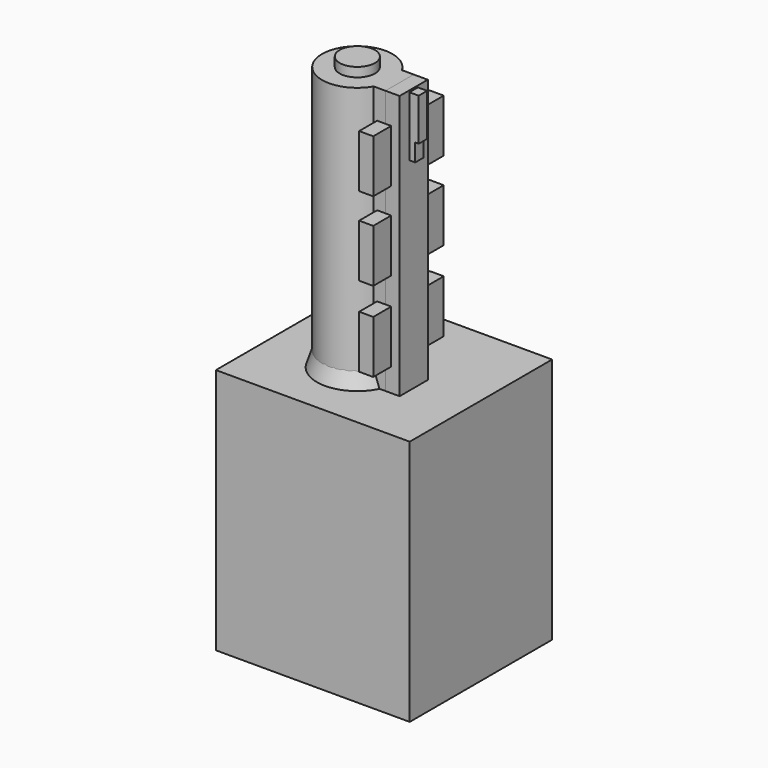
from build123d import *

# Parameters (mm, degrees)
BOX_W             = 8
BOX_H             = 20
BOX_DEPTH         = 290
CYLINDER_R        = 20
CYLINDER_DEPTH    = 290
CYLINDER001_R     = 25
CYLINDER001_DEPTH = 140
BOX005_W          = 8
BOX005_H          = 6
BOX005_DEPTH      = 34
BOX004_W          = 10
BOX004_H          = 6
BOX004_DEPTH      = 24
BOX002_W          = 10
BOX002_H          = 6
BOX002_DEPTH      = 24
BOX001_W          = 8
BOX001_H          = 20
BOX001_DEPTH      = 290
BOX003_W          = 10
BOX003_H          = 6
BOX003_DEPTH      = 24
BOX006_W          = 8
BOX006_H          = 50
BOX006_DEPTH      = 30
BOX007_W          = 8
BOX007_H          = 50
BOX007_DEPTH      = 30
BOX008_W          = 8
BOX008_H          = 50
BOX008_DEPTH      = 30
CYLINDER002_R     = 10
CYLINDER002_DEPTH = 20
CYLINDER003_R     = 10
CYLINDER003_DEPTH = 290
BOX009_W          = 10
BOX009_H          = 10
BOX009_DEPTH      = 10
BOX010_W          = 110
BOX010_H          = 101
BOX010_DEPTH      = 140
CYLINDER004_R     = 18
CYLINDER004_DEPTH = 20


with BuildPart() as cube:
    # Box → Box (new body)
    with BuildSketch(Plane(origin=(17.25, -10, 0), x_dir=(1, 0, 0), z_dir=(0, 0, 1))):
        with Locations((4, 10)):
            Rectangle(BOX_W, BOX_H)
    extrude(amount=BOX_DEPTH)


with BuildPart() as mainbarrel:
    # Cylinder → Cylinder (new body)
    with BuildSketch(Plane.XY):
        Circle(CYLINDER_R)
    extrude(amount=CYLINDER_DEPTH)

    # Fusion: union Cube
    add(cube.part)


with BuildPart() as cylinder001:
    # Cylinder001 → Cylinder001 (new body)
    with BuildSketch(Plane.XY):
        Circle(CYLINDER001_R)
    extrude(amount=CYLINDER001_DEPTH)


with BuildPart() as rearbarrel:
    # Cone → Cone (revolve)
    with BuildSketch(Plane(origin=(0, 0, 139.75), x_dir=(1, 0, 0), z_dir=(0, -1, 0))):
        Polygon((0, 0), (23, 0), (18, 15), (0, 15), align=None)
    revolve(axis=Axis((0, 0, 139.75), (0, 0, 1)))

    # Fusion001: union Cylinder001
    add(cylinder001.part)


with BuildPart() as cube005:
    # Box005 → Box005 (new body)
    with BuildSketch(Plane(origin=(27.25, -3, 0), x_dir=(1, 0, 0), z_dir=(0, 0, 1))):
        with Locations((4, 3)):
            Rectangle(BOX005_W, BOX005_H)
    extrude(amount=BOX005_DEPTH)


with BuildPart() as obj1:
    # Box004 → Box004 (new body)
    with BuildSketch(Plane(origin=(27.25, -3, 10), x_dir=(1, 0, 0), z_dir=(0, 0, 1))):
        with Locations((5, 3)):
            Rectangle(BOX004_W, BOX004_H)
    extrude(amount=BOX004_DEPTH)

    # Fusion002: union Cube005
    add(cube005.part)


with BuildPart() as obj1_1:
    # Fusion002 placement: moved
    add(obj1.part.moved(Location((0, 0, 255))))


with BuildPart() as cube002:
    # Box002 → Box002 (new body)
    with BuildSketch(Plane(origin=(27.25, -10, 0), x_dir=(1, 0, 0), z_dir=(0, 0, 1))):
        with Locations((5, 3)):
            Rectangle(BOX002_W, BOX002_H)
    extrude(amount=BOX002_DEPTH)


with BuildPart() as cube001:
    # Box001 → Box001 (new body)
    with BuildSketch(Plane(origin=(24, -10, 0), x_dir=(1, 0, 0), z_dir=(0, 0, 1))):
        with Locations((4, 10)):
            Rectangle(BOX001_W, BOX001_H)
    extrude(amount=BOX001_DEPTH)


with BuildPart() as obj2:
    # Box003 → Box003 (new body)
    with BuildSketch(Plane(origin=(27.25, 4, 0), x_dir=(1, 0, 0), z_dir=(0, 0, 1))):
        with Locations((5, 3)):
            Rectangle(BOX003_W, BOX003_H)
    extrude(amount=BOX003_DEPTH)

    # Fusion003: union Cube001
    add(cube001.part)

    # Fusion004: union Cube002
    add(cube002.part)


with BuildPart() as cube006:
    # Box006 → Box006 (new body)
    with BuildSketch(Plane(origin=(19.25, -22.75, 153.25), x_dir=(1, 0, 0), z_dir=(0, 0, 1))):
        with Locations((4, 25)):
            Rectangle(BOX006_W, BOX006_H)
    extrude(amount=BOX006_DEPTH)


with BuildPart() as cube007:
    # Box007 → Box007 (new body)
    with BuildSketch(Plane(origin=(19.25, -22.75, 198.75), x_dir=(1, 0, 0), z_dir=(0, 0, 1))):
        with Locations((4, 25)):
            Rectangle(BOX007_W, BOX007_H)
    extrude(amount=BOX007_DEPTH)


with BuildPart() as cube008:
    # Box008 → Box008 (new body)
    with BuildSketch(Plane(origin=(19.25, -22.75, 243.5), x_dir=(1, 0, 0), z_dir=(0, 0, 1))):
        with Locations((4, 25)):
            Rectangle(BOX008_W, BOX008_H)
    extrude(amount=BOX008_DEPTH)


with BuildPart() as cylinder002:
    # Cylinder002 → Cylinder002 (new body)
    with BuildSketch(Plane.XY.offset(7.25)):
        Circle(CYLINDER002_R)
    extrude(amount=CYLINDER002_DEPTH)


with BuildPart() as cylinder003:
    # Cylinder003 → Cylinder003 (new body)
    with BuildSketch(Plane.XY.offset(5.25)):
        Circle(CYLINDER003_R)
    extrude(amount=CYLINDER003_DEPTH)


with BuildPart() as cube009:
    # Box009 → Box009 (new body)
    with BuildSketch(Plane.XY):
        with Locations((5, 5)):
            Rectangle(BOX009_W, BOX009_H)
    extrude(amount=BOX009_DEPTH)


with BuildPart() as cube010:
    # Box010 → Box010 (new body)
    with BuildSketch(Plane(origin=(-47.25, -41.25, 0), x_dir=(1, 0, 0), z_dir=(0, 0, 1))):
        with Locations((55, 50.5)):
            Rectangle(BOX010_W, BOX010_H)
    extrude(amount=BOX010_DEPTH)


with BuildPart() as cylinder004:
    # Cylinder004 → Cylinder004 (new body)
    with BuildSketch(Plane.XY.offset(140.25)):
        Circle(CYLINDER004_R)
    extrude(amount=CYLINDER004_DEPTH)


solid = Compound([mainbarrel.part, rearbarrel.part, obj1_1.part, obj2.part, cube006.part, cube007.part, cube008.part, cylinder002.part, cylinder003.part, cube009.part, cube010.part, cylinder004.part])
